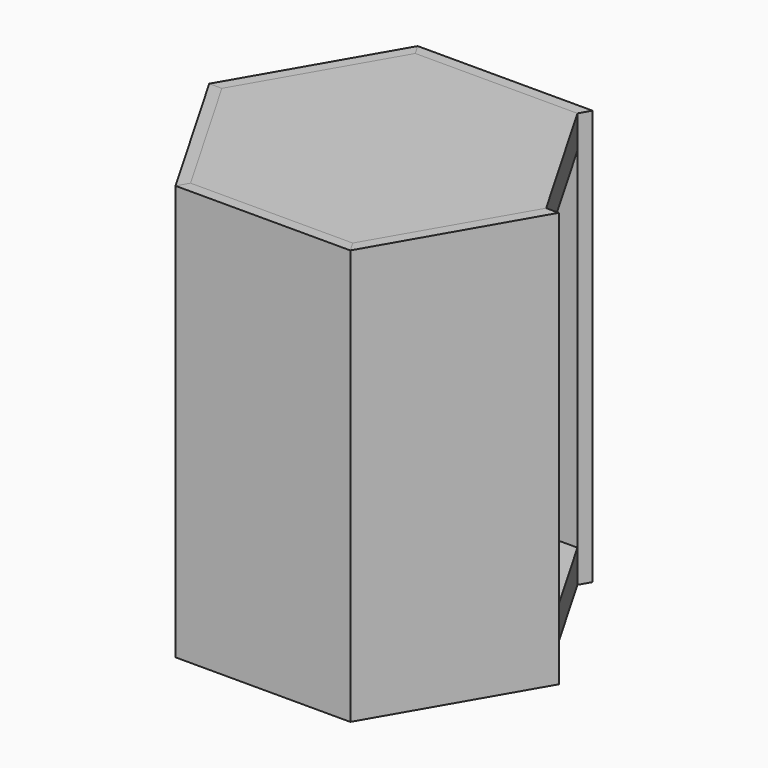
from build123d import *

# Parameters (mm, degrees)
F1_DEPTH  = 19.05
F2_W      = 38.1
F2_H      = 38.1
F3_DEPTH  = 203.2
F6_DEPTH  = 241.3
F7_DEPTH  = 241.3
F8_DEPTH  = 241.3
F9_DEPTH  = 241.3
F10_DEPTH = 241.3
F12_DEPTH = 203.2


with BuildPart() as f1:
    # F0 (on Top) → F1 (new body)
    with BuildSketch(Plane.XY):
        Polygon((-47.1323356355, -81.6356), (47.1323356355, -81.6356), (94.2646712709, 0), (47.1323356355, 81.6356), (-47.1323356355, 81.6356), (-94.2646712709, 0), align=None)
    extrude(amount=F1_DEPTH)



with BuildPart() as f3:
    # F2 (on face) → F3 (new body)
    with BuildSketch(Plane.XY.offset(19.05)):
        Rectangle(F2_W, F2_H)
    extrude(amount=F3_DEPTH)


with BuildPart() as f1_1:
    add(f1.part)

    add(f3.part)  # F5 merges F3
    # F5: F1 across plane
    add(f1.part.mirror(Plane.XY.offset(120.65)))


with BuildPart() as f6:
    # F0 (on Top) → F6 (new body, through all)
    with BuildSketch(Plane.XY):
        Polygon((47.1323356355, 81.6356), (50.7985098448, 87.9856), (-50.7985098448, 87.9856), (-47.1323356355, 81.6356), align=None)
    extrude(amount=F6_DEPTH)


with BuildPart() as f7:
    # F0 (on Top) → F7 (new body, through all)
    with BuildSketch(Plane.XY):
        Polygon((-50.7985098448, 87.9856), (-101.5970196896, 0), (-94.2646712709, 0), (-47.1323356355, 81.6356), align=None)
    extrude(amount=F7_DEPTH)


with BuildPart() as f8:
    # F0 (on Top) → F8 (new body, through all)
    with BuildSketch(Plane.XY):
        Polygon((-101.5970196896, 0), (-50.7985098448, -87.9856), (-47.1323356355, -81.6356), (-94.2646712709, 0), align=None)
    extrude(amount=F8_DEPTH)


with BuildPart() as f9:
    # F0 (on Top) → F9 (new body, through all)
    with BuildSketch(Plane.XY):
        Polygon((-50.7985098448, -87.9856), (50.7985098448, -87.9856), (47.1323356355, -81.6356), (-47.1323356355, -81.6356), align=None)
    extrude(amount=F9_DEPTH)


with BuildPart() as f10:
    # F0 (on Top) → F10 (new body, through all)
    with BuildSketch(Plane.XY):
        Polygon((47.1323356355, -81.6356), (50.7985098448, -87.9856), (101.5970196896, 0), (94.2646712709, 0), align=None)
    extrude(amount=F10_DEPTH)


with BuildPart() as f12:
    # F11 (on face) → F12 (new body, through all)
    with BuildSketch(Plane.XY.offset(19.05)):
        Polygon((-75.9337987201, 0), (-37.96689936, -65.7605986974), (37.96689936, -65.7605986974), (75.9337987201, 0), (37.96689936, 65.7605986974), (-37.96689936, 65.7605986974), align=None)
        Polygon((36.1338132325, -62.5856003899), (-36.1338132325, -62.5856003899), (-72.267626465, 0), (-36.1338132325, 62.5856003899), (36.1338132325, 62.5856003899), (72.267626465, 0), align=None, mode=Mode.SUBTRACT)
    extrude(amount=F12_DEPTH)


solid = Compound([f1_1.part, f6.part, f7.part, f8.part, f9.part, f10.part, f12.part])
